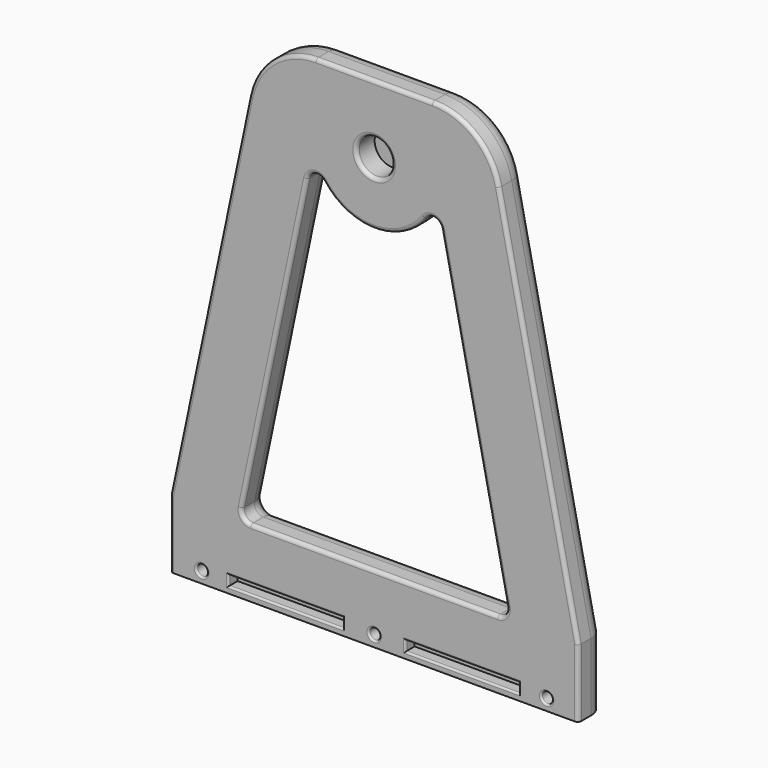
from build123d import *

# Parameters (mm, degrees)
F1_DEPTH  = 9.525
F2_R      = 4.953
F3_DEPTH  = 6.35
F4_R      = 19.05
F6_DEPTH  = 25.4
F7_R      = 5.08
F8_R      = 1.016
F9_R      = 1.524
F10_DEPTH = 25.4
F11_R     = 2.413
F12_DEPTH = 3.048
F13_R     = 0.254
F14_W     = 32.004
F14_H     = 2.794
F14_W_2   = 31.75
F15_DEPTH = 3.2004
F16_R     = 0.508


with BuildPart() as f1:
    # F0 (on Front) → F1 (new body)
    with BuildSketch(Plane.XZ):
        Polygon((-57.15, 19.05), (-57.15, 0), (57.15, 0), (57.15, 19.05), (31.75, 139.7), (-31.75, 139.7), align=None)
    extrude(amount=F1_DEPTH)

    # F2 (on face) → F3 (cut)
    with BuildSketch(Plane.XZ.offset(9.525)):
        with Locations((0, 120.65)):
            Circle(F2_R)
    extrude(amount=-F3_DEPTH, mode=Mode.SUBTRACT)

    # F4
    f4_edges = [f1.edges().sort_by_distance(p)[0] for p in [
        (31.75, -4.7625, 139.7),
        (-31.75, -4.7625, 139.7),
    ]]
    fillet(f4_edges, radius=F4_R)

    # F5 (on face) → F6 (cut)
    with BuildSketch(Plane.XZ.offset(9.525)):
        with BuildLine():
            ThreePointArc((14.1861757221, 110.1437719717), (0, 102.997), (-14.1861757221, 110.1437719717))
            ThreePointArc((-14.1861757221, 110.1437719717), (-16.7692039839, 111.1136155694), (-18.7128685388, 109.1553511075))
            Line((-18.7128685388, 109.1553511075), (-37.0375179042, 22.1132666219))
            ThreePointArc((-37.0375179042, 22.1132666219), (-36.5243981168, 19.9896089883), (-34.5520014504, 19.05))
            Line((-34.5520014504, 19.05), (34.5520014504, 19.05))
            ThreePointArc((34.5520014504, 19.05), (36.5243981168, 19.9896089883), (37.0375179042, 22.1132666219))
            Line((37.0375179042, 22.1132666219), (18.7128685388, 109.1553511075))
            ThreePointArc((18.7128685388, 109.1553511075), (16.7692039839, 111.1136155694), (14.1861757221, 110.1437719717))
        make_face()
    extrude(amount=-F6_DEPTH, mode=Mode.SUBTRACT)

    # F7
    f7_edges = [f1.edges().sort_by_distance(p)[0] for p in [
        (-28.295875, 0, 135.442975),
        (-57.15, 0, 9.525),
        (57.15, 0, 9.525),
        (0, 0, 102.997),
    ]]
    fillet(f7_edges, radius=F7_R)

    # F8
    f8_edges = [f1.edges().sort_by_distance(p)[0] for p in [
        (57.15, -9.525, 9.525),
        (46.042158, -9.525, 71.81225),
        (-27.875193, -9.525, 65.634309),
        (-4.953, -9.525, 120.65),
        (-57.15, -9.525, 9.525),
    ]]
    fillet(f8_edges, radius=F8_R)

    # F9 (on face) → F10 (cut)
    with BuildSketch(Plane(origin=(0, 0, 0), x_dir=(-1, 0, 0), z_dir=(0, 1, 0))):
        with Locations((0, 3.175)):
            Circle(F9_R)
        with Locations((48.26, 3.175)):
            Circle(F9_R)
        with Locations((-48.26, 3.175)):
            Circle(F9_R)
    extrude(amount=-F10_DEPTH, mode=Mode.SUBTRACT)

    # F11 (on face) → F12 (cut)
    with BuildSketch(Plane(origin=(0, 0, 0), x_dir=(-1, 0, 0), z_dir=(0, 1, 0))):
        with Locations((-48.26, 3.175)):
            Circle(F11_R)
        with Locations((0, 3.175)):
            Circle(F11_R)
        with Locations((48.26, 3.175)):
            Circle(F11_R)
    extrude(amount=-F12_DEPTH, mode=Mode.SUBTRACT)

    # F13
    f13_edges = [f1.edges().sort_by_distance(p)[0] for p in [
        (49.784, -3.048, 3.175),
        (1.524, -3.048, 3.175),
        (-46.736, -3.048, 3.175),
    ]]
    fillet(f13_edges, radius=F13_R)

    # F14 (on face) → F15 (cut)
    with BuildSketch(Plane.XZ.offset(9.525)):
        with Locations((-24.765, 3.175)):
            Rectangle(F14_W, F14_H)
        with Locations((24.638, 3.175)):
            Rectangle(F14_W_2, F14_H)
    extrude(amount=-F15_DEPTH, mode=Mode.SUBTRACT)

    # F16
    f16_edges = [f1.edges().sort_by_distance(p)[0] for p in [
        (-24.765, -9.525, 4.572),
        (-40.767, -9.525, 3.175),
        (-24.765, -9.525, 1.778),
        (-8.763, -9.525, 3.175),
        (24.638, -9.525, 4.572),
        (8.763, -9.525, 3.175),
        (24.638, -9.525, 1.778),
        (40.513, -9.525, 3.175),
        (-46.736, -9.525, 3.175),
        (1.524, -9.525, 3.175),
        (49.784, -9.525, 3.175),
    ]]
    fillet(f16_edges, radius=F16_R)


solid = f1.part
